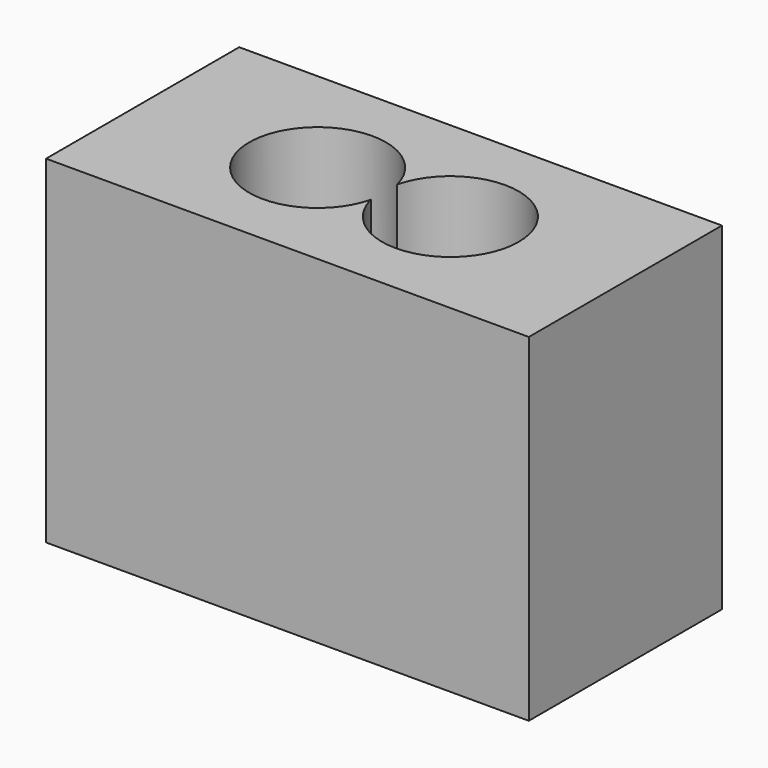
from build123d import *

# Parameters (mm, degrees)
F0_W     = 76.2
F0_H     = 38.1
F1_DEPTH = 53.34
F3_DEPTH = 38.1


with BuildPart() as f1:
    # F0 (on Top) → F1 (new body)
    with BuildSketch(Plane.XY):
        Rectangle(F0_W, F0_H)
    extrude(amount=F1_DEPTH)

    # F2 (on face) → F3 (cut)
    with BuildSketch(Plane.XY.offset(53.34)):
        with BuildLine():
            ThreePointArc((0, -2.5988495051), (0.2378310145, -1.3090860361), (0.3175, 0))
            ThreePointArc((0.3175, 0), (0.2378310145, 1.3090860361), (0, 2.5988495051))
            ThreePointArc((0, 2.5988495051), (-0.3175, 0), (0, -2.5988495051))
        make_face()
        with BuildLine():
            ThreePointArc((0, 2.5988495051), (0.2378310145, 1.3090860361), (0.3175, 0))
            ThreePointArc((0.3175, 0), (0.2378310145, -1.3090860361), (0, -2.5988495051))
            ThreePointArc((0, -2.5988495051), (11.7865860361, -10.7153310145), (21.2725, 0))
            ThreePointArc((21.2725, 0), (11.7865860361, 10.7153310145), (0, 2.5988495051))
        make_face()
        with BuildLine():
            ThreePointArc((0, -2.5988495051), (-0.3175, 0), (0, 2.5988495051))
            ThreePointArc((0, 2.5988495051), (-21.2725, 0), (0, -2.5988495051))
        make_face()
    extrude(amount=-F3_DEPTH, mode=Mode.SUBTRACT)


solid = f1.part
